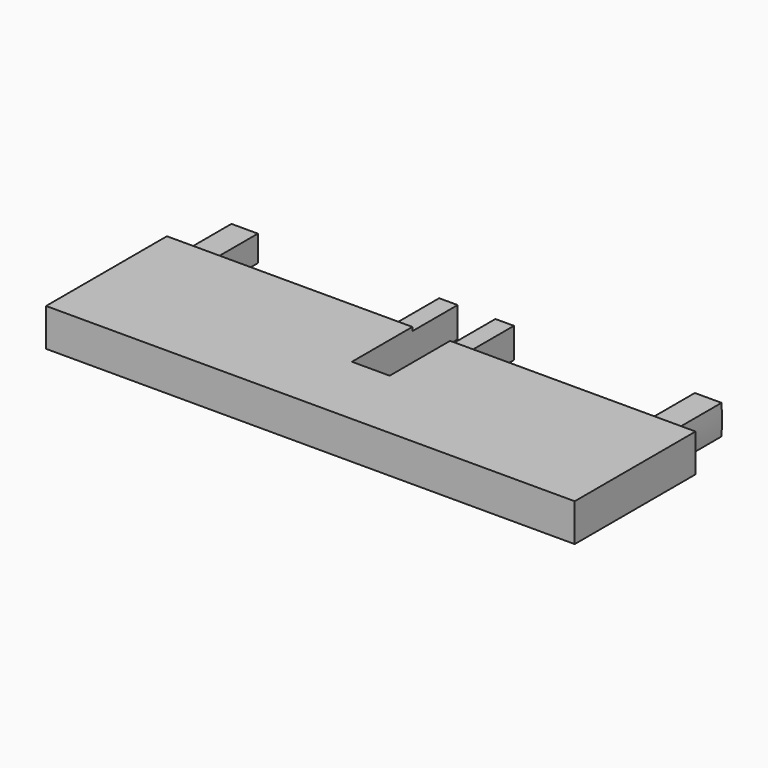
from build123d import *

# Parameters (mm, degrees)
F0_W     = 70
F0_H     = 5
F1_DEPTH = 20
F3_DEPTH = 2.501
F4_DEPTH = 2.501
F5_W     = 2.45
F5_H     = 4
F6_DEPTH = 7.5


with BuildPart() as f1:
    # F0 (on Front) → F1 (new body)
    with BuildSketch(Plane.XZ):
        Rectangle(F0_W, F0_H)
    extrude(amount=F1_DEPTH)

    # F2 (on Top) → F3 (cut, through all)
    with BuildSketch(Plane.XY):
        Polygon((2.5, 0), (0, 0), (-2.5, 0), (-2.5, -10), (2.5, -10), align=None)
    extrude(amount=-F3_DEPTH, mode=Mode.SUBTRACT)

    # F2 (on Top) → F4 (cut, through all)
    with BuildSketch(Plane.XY):
        Polygon((2.5, 0), (0, 0), (-2.5, 0), (-2.5, -10), (2.5, -10), align=None)
    extrude(amount=F4_DEPTH, mode=Mode.SUBTRACT)

    # F5 (on Front) → F6 (join)
    with BuildSketch(Plane.XZ):
        with BuildLine():
            Line((28.90652, -1.963228), (32.440649, -1.963228))
            ThreePointArc((32.440649, -1.963228), (32.5, -0.00059), (32.440721, 1.962049))
            Line((32.440721, 1.962049), (28.90652, 1.962049))
            Line((28.90652, 1.962049), (28.90652, -1.963228))
        make_face()
        with BuildLine():
            Line((-28.95826, 1.719714), (-32.454469, 1.719714))
            ThreePointArc((-32.454469, 1.719714), (-32.5, -0.000563), (-32.45441, -1.720838))
            Line((-32.45441, -1.720838), (-28.95826, -1.720838))
            Line((-28.95826, -1.720838), (-28.95826, 1.719714))
        make_face()
        with Locations((-3.725, 0)):
            Rectangle(F5_W, F5_H)
        with Locations((3.725, 0)):
            Rectangle(F5_W, F5_H)
    extrude(amount=-F6_DEPTH)


solid = f1.part
